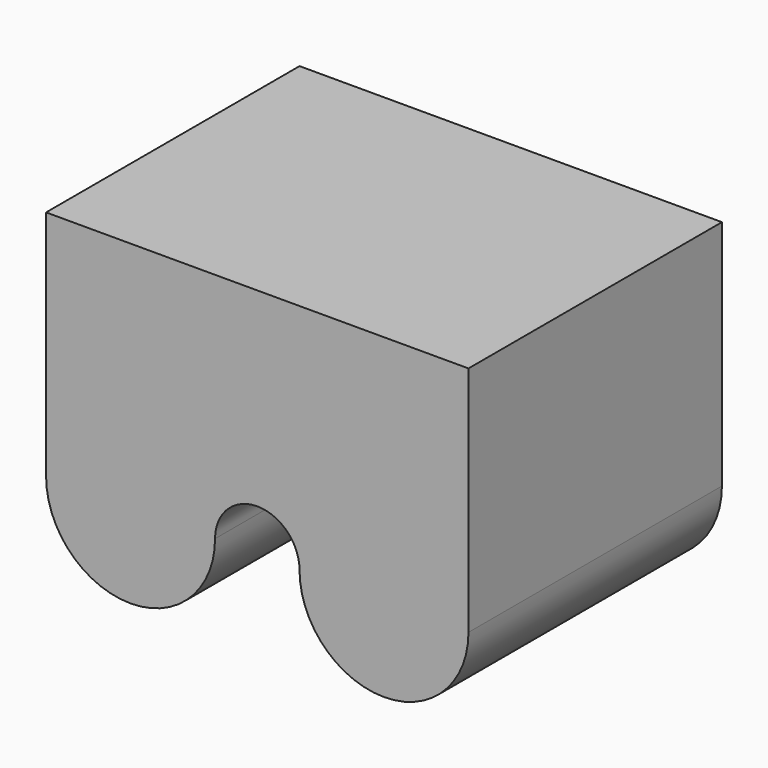
from build123d import *

# Parameters (mm, degrees)
F1_DEPTH = 30


with BuildPart() as f1:
    # F0 (on Front) → F1 (new body)
    with BuildSketch(Plane.XZ):
        with BuildLine():
            ThreePointArc((-20, -7), (-17.656854, -12.656854), (-12, -15))
            ThreePointArc((-12, -15), (-6.343146, -12.656854), (-4, -7))
            ThreePointArc((-4, -7), (0, -3), (4, -7))
            ThreePointArc((4, -7), (6.343146, -12.656854), (12, -15))
            ThreePointArc((12, -15), (17.656854, -12.656854), (20, -7))
            Line((20, -7), (20, 15))
            Line((20, 15), (-20, 15))
            Line((-20, 15), (-20, -7))
        make_face()
    extrude(amount=F1_DEPTH)


solid = f1.part
